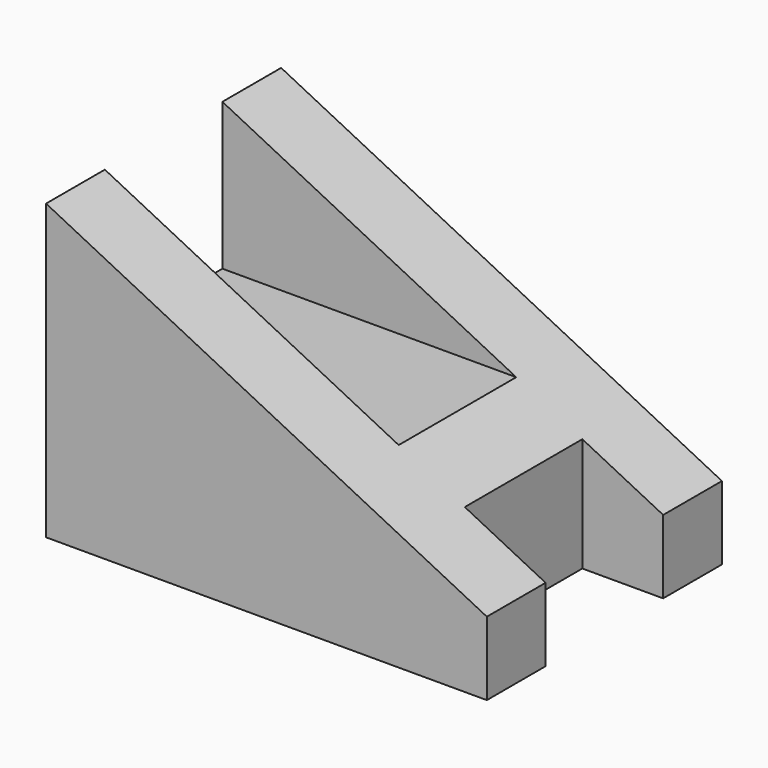
from build123d import *

# Parameters (mm, degrees)
F1_DEPTH = 20
F2_W     = 10
F2_H     = 5
F3_DEPTH = 5.5
F4_W     = 10
F4_H     = 10
F5_DEPTH = 30.001
F6_W     = 5.5
F6_H     = 10
F7_DEPTH = 15.001


with BuildPart() as f1:
    # F0 (on Front) → F1 (new body)
    with BuildSketch(Plane.XZ):
        Polygon((0, 20), (0, 0), (30, 0), (30, 5), align=None)
    extrude(amount=F1_DEPTH)

    # F2 (on face) → F3 (cut)
    with BuildSketch(Plane.YZ.offset(30)):
        with Locations((-10, 2.5)):
            Rectangle(F2_W, F2_H)
    extrude(amount=-F3_DEPTH, mode=Mode.SUBTRACT)

    # F4 (on face) → F5 (cut, through all)
    with BuildSketch(Plane(origin=(0, 0, 0), x_dir=(0, -1, 0), z_dir=(-1, 0, 0))):
        with Locations((10, 15)):
            Rectangle(F4_W, F4_H)
    extrude(amount=-F5_DEPTH, mode=Mode.SUBTRACT)

    # F6 (on face) → F7 (cut, through all)
    with BuildSketch(Plane(origin=(0, 0, 5), x_dir=(1, 0, 0), z_dir=(0, 0, -1))):
        with Locations((27.25, 10)):
            Rectangle(F6_W, F6_H)
    extrude(amount=-F7_DEPTH, mode=Mode.SUBTRACT)


solid = f1.part
